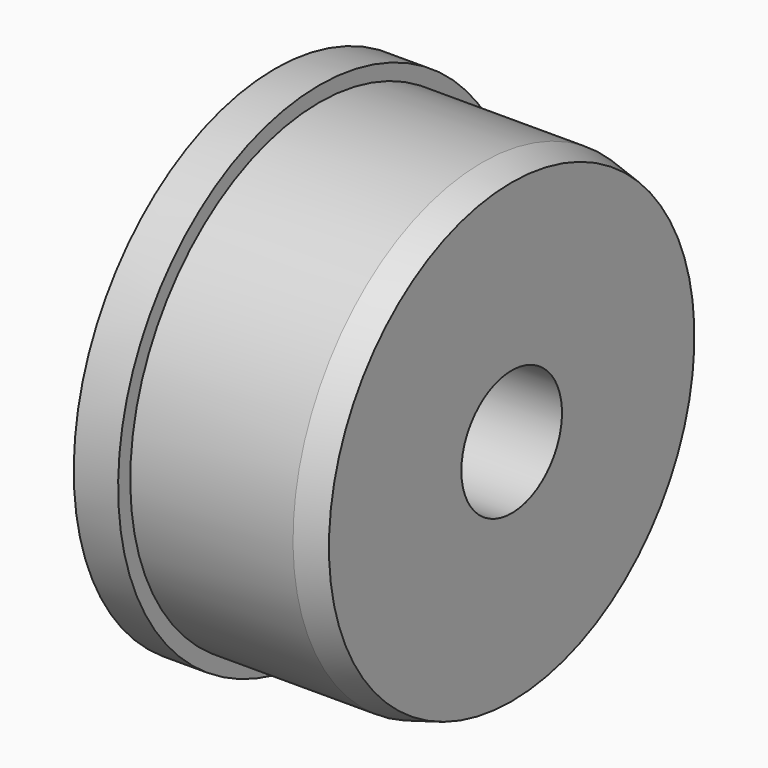
from build123d import *

# Parameters (mm, degrees)
F3_D     = 8.5
F4_SIZE2 = 0.5358983849
F4_SIZE  = 2


with BuildPart() as f1:
    # F0 (on Front) → F1 (revolve)
    with BuildSketch(Plane.XZ):
        Polygon((0, 17), (0, 0), (16, 0), (16, 15.975), (3, 15.975), (3, 17), align=None)
    revolve(axis=Axis((8, 0, 0), (1, 0, 0)))

    # F3 (through all)
    with Locations(Plane.YZ.offset(16)):
        with Locations((0, 0)):
            Hole(F3_D / 2)

    # F4
    f4_edges = [f1.edges().sort_by_distance(p)[0] for p in [
        (16, 0, -15.975),
    ]]
    f4_side = f1.faces().sort_by_distance((9.5, 0, -15.975))[0]
    chamfer(f4_edges, length=F4_SIZE, length2=F4_SIZE2, reference=f4_side)


solid = f1.part
